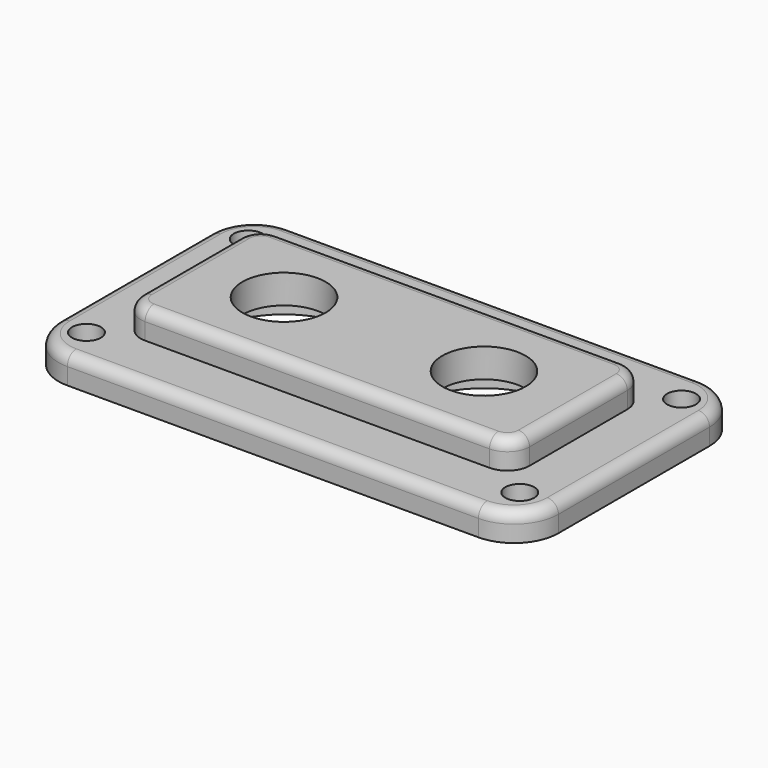
from build123d import *

# Parameters (mm, degrees)
F0_R     = 1.651
F0_R_2   = 4.7625
F1_DEPTH = 3.175
F2_DEPTH = 3.175
F3_R     = 1.27
F4_R     = 8.89
F5_DEPTH = 3.048


with BuildPart() as f1:
    # F0 (on Top) → F1 (new body)
    with BuildSketch(Plane.XY):
        with BuildLine():
            Line((-23.495, -15.875), (23.495, -15.875))
            ThreePointArc((23.495, -15.875), (27.087102, -14.387102), (28.575, -10.795))
            Line((28.575, -10.795), (28.575, 10.795))
            ThreePointArc((28.575, 10.795), (27.087102, 14.387102), (23.495, 15.875))
            Line((23.495, 15.875), (-23.495, 15.875))
            ThreePointArc((-23.495, 15.875), (-27.087102, 14.387102), (-28.575, 10.795))
            Line((-28.575, 10.795), (-28.575, -10.795))
            ThreePointArc((-28.575, -10.795), (-27.087102, -14.387102), (-23.495, -15.875))
        make_face()
        with Locations((-24.765, -11.557)):
            Circle(F0_R, mode=Mode.SUBTRACT)
        with Locations((24.765, -11.557)):
            Circle(F0_R, mode=Mode.SUBTRACT)
        with Locations((-24.765, 11.557)):
            Circle(F0_R, mode=Mode.SUBTRACT)
        with BuildLine():
            Line((-19.685, 9.525), (19.685, 9.525))
            ThreePointArc((19.685, 9.525), (21.481051, 8.781051), (22.225, 6.985))
            Line((22.225, 6.985), (22.225, -6.985))
            ThreePointArc((22.225, -6.985), (21.481051, -8.781051), (19.685, -9.525))
            Line((19.685, -9.525), (-19.685, -9.525))
            ThreePointArc((-19.685, -9.525), (-21.481051, -8.781051), (-22.225, -6.985))
            Line((-22.225, -6.985), (-22.225, 6.985))
            ThreePointArc((-22.225, 6.985), (-21.481051, 8.781051), (-19.685, 9.525))
        make_face(mode=Mode.SUBTRACT)
        with Locations((24.765, 11.557)):
            Circle(F0_R, mode=Mode.SUBTRACT)
        with BuildLine():
            ThreePointArc((22.225, 6.985), (21.481051, 8.781051), (19.685, 9.525))
            Line((19.685, 9.525), (-19.685, 9.525))
            ThreePointArc((-19.685, 9.525), (-21.481051, 8.781051), (-22.225, 6.985))
            Line((-22.225, 6.985), (-22.225, -6.985))
            ThreePointArc((-22.225, -6.985), (-21.481051, -8.781051), (-19.685, -9.525))
            Line((-19.685, -9.525), (19.685, -9.525))
            ThreePointArc((19.685, -9.525), (21.481051, -8.781051), (22.225, -6.985))
            Line((22.225, -6.985), (22.225, 6.985))
        make_face()
        with Locations((-11.43, 0)):
            Circle(F0_R_2, mode=Mode.SUBTRACT)
        with Locations((11.43, 0)):
            Circle(F0_R_2, mode=Mode.SUBTRACT)
    extrude(amount=-F1_DEPTH)

    # F0 (on Top) → F2 (join)
    with BuildSketch(Plane.XY):
        with BuildLine():
            ThreePointArc((22.225, 6.985), (21.481051, 8.781051), (19.685, 9.525))
            Line((19.685, 9.525), (-19.685, 9.525))
            ThreePointArc((-19.685, 9.525), (-21.481051, 8.781051), (-22.225, 6.985))
            Line((-22.225, 6.985), (-22.225, -6.985))
            ThreePointArc((-22.225, -6.985), (-21.481051, -8.781051), (-19.685, -9.525))
            Line((-19.685, -9.525), (19.685, -9.525))
            ThreePointArc((19.685, -9.525), (21.481051, -8.781051), (22.225, -6.985))
            Line((22.225, -6.985), (22.225, 6.985))
        make_face()
        with Locations((-11.43, 0)):
            Circle(F0_R_2, mode=Mode.SUBTRACT)
        with Locations((11.43, 0)):
            Circle(F0_R_2, mode=Mode.SUBTRACT)
    extrude(amount=F2_DEPTH)

    # F3
    f3_edges = [f1.edges().sort_by_distance(p)[0] for p in [
        (0, 9.525, 3.175),
        (0, 15.875, 0),
    ]]
    fillet(f3_edges, radius=F3_R)

    # F4 (on face) → F5 (cut)
    with BuildSketch(Plane(origin=(0, 0, -3.175), x_dir=(1, 0, 0), z_dir=(0, 0, -1))):
        with Locations((-11.43, 0)):
            Circle(F4_R)
        with Locations((11.43, 0)):
            Circle(F4_R)
    extrude(amount=-F5_DEPTH, mode=Mode.SUBTRACT)


solid = f1.part
